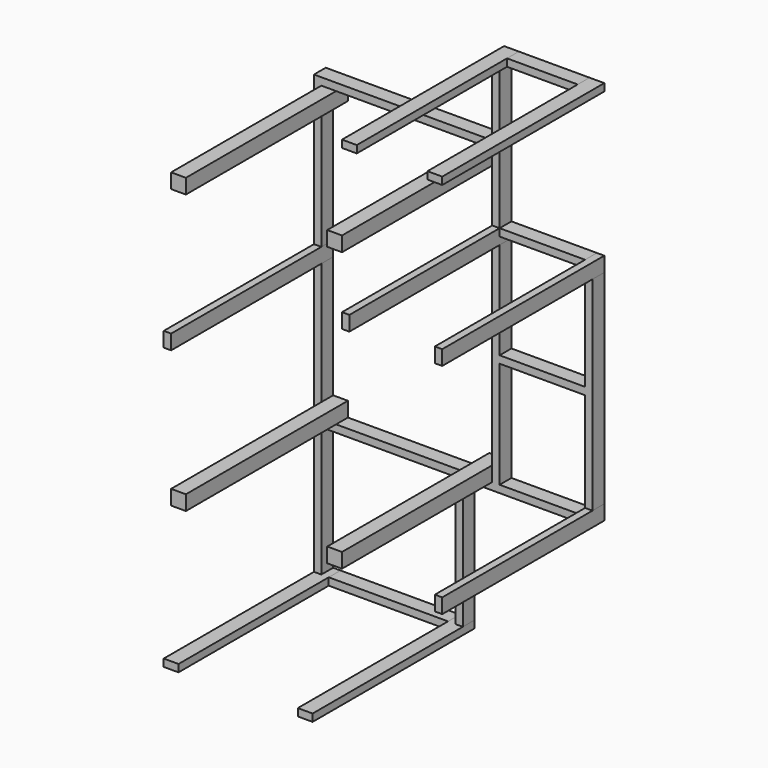
from build123d import *

# Parameters (mm, degrees)
F0_W     = 44.45
F0_H     = 419.1
F0_W_2   = 425.45
F0_H_2   = 44.45
F0_H_3   = 780.411793
F0_W_3   = 514.35
F1_DEPTH = 88.9
F0_W_4   = 88.9
F0_H_4   = 88.9
F2_DEPTH = 1219.2


with BuildPart() as f1:
    # F0 (on Front) → F1 (new body)
    with BuildSketch(Plane.XZ):
        with Locations((-64.132171, 1731.688611)):
            Rectangle(F0_W, F0_H)
        with Locations((215.267829, 1963.463611)):
            Rectangle(F0_W_2, F0_H_2)
        Polygon((-1159.507171, 1522.138611), (-1159.507171, 1477.688611), (-1115.057171, 1477.688611), (-1026.157171, 1477.688611), (-622.932171, 1477.688611), (-578.482171, 1477.688611), (-175.257171, 1477.688611), (-86.357171, 1477.688611), (-86.357171, 1522.138611), align=None)
        Polygon((-1159.507171, 1477.688611), (-1159.507171, 623.232611), (-1115.057171, 623.232611), (-1115.057171, 1388.788611), (-1115.057171, 1477.688611), align=None)
        Polygon((-1159.507171, 534.332611), (-1159.507171, -1113.111389), (-1115.057171, -1113.111389), (-1115.057171, -332.699596), (-1115.057171, -288.249596), (-1115.057171, -199.349596), (-1115.057171, 534.332611), align=None)
        Polygon((-1070.607171, -1113.111389), (-1070.607171, -1157.561389), (-352.418964, -1157.561389), (-352.418964, -1113.111389), (-689.607171, -1113.111389), (-734.057171, -1113.111389), align=None)
        with Locations((-285.743964, -722.905492)):
            Rectangle(F0_W, F0_H_3)
        Polygon((-263.518964, -332.699596), (472.442829, -332.699596), (472.442829, -288.249596), (-41.907171, -288.249596), (-86.357171, -288.249596), (-175.257171, -288.249596), (-307.968964, -288.249596), (-307.968964, -332.699596), align=None)
        Polygon((-1115.057171, -288.249596), (-1115.057171, -332.699596), (-734.057171, -332.699596), (-689.607171, -332.699596), (-307.968964, -332.699596), (-307.968964, -288.249596), (-578.482171, -288.249596), (-622.932171, -288.249596), (-1026.157171, -288.249596), align=None)
        Polygon((-86.357171, -288.249596), (-41.907171, -288.249596), (-41.907171, 353.357611), (-41.907171, 397.807611), (-41.907171, 982.388611), (-86.357171, 982.388611), (-86.357171, 623.232611), (-86.357171, 578.782611), (-86.357171, -199.349596), align=None)
        Polygon((472.442829, -243.799596), (516.892829, -243.799596), (516.892829, 982.388611), (472.442829, 982.388611), (472.442829, 397.807611), (472.442829, 353.357611), align=None)
        with Locations((215.267829, 1049.063611)):
            Rectangle(F0_W_3, F0_H_2)
        with Locations((215.267829, 375.582611)):
            Rectangle(F0_W_3, F0_H_2)
        Polygon((-41.907171, 1522.138611), (-86.357171, 1522.138611), (-86.357171, 1477.688611), (-86.357171, 1388.788611), (-86.357171, 1071.288611), (-41.907171, 1071.288611), (-41.907171, 1477.688611), align=None)
    extrude(amount=F1_DEPTH)


with BuildPart() as f2:
    # F0 (on Front) → F2 (new body)
    with BuildSketch(Plane.XZ):
        with Locations((-1070.607171, 1433.238611)):
            Rectangle(F0_W_4, F0_H_4)
        with Locations((-130.807171, 1433.238611)):
            Rectangle(F0_W_4, F0_H_4)
        Polygon((-41.907171, 1071.288611), (-86.357171, 1071.288611), (-86.357171, 982.388611), (-41.907171, 982.388611), (-41.907171, 1026.838611), align=None)
        Polygon((-1159.507171, 623.232611), (-1159.507171, 534.332611), (-1115.057171, 534.332611), (-1115.057171, 578.782611), (-1115.057171, 623.232611), align=None)
        with Locations((-64.132171, 1963.463611)):
            Rectangle(F0_W, F0_H_2)
        with Locations((-19.682171, 1963.463611)):
            Rectangle(F0_W, F0_H_2)
        with Locations((450.217829, 1963.463611)):
            Rectangle(F0_W, F0_H_2)
        with Locations((494.667829, 1963.463611)):
            Rectangle(F0_W, F0_H_2)
        Polygon((472.442829, 982.388611), (516.892829, 982.388611), (516.892829, 1071.288611), (472.442829, 1071.288611), (472.442829, 1026.838611), align=None)
        with Locations((-130.807171, -243.799596)):
            Rectangle(F0_W_4, F0_H_4)
        with Locations((-1070.607171, -243.799596)):
            Rectangle(F0_W_4, F0_H_4)
        Polygon((472.442829, -288.249596), (472.442829, -332.699596), (516.892829, -332.699596), (516.892829, -243.799596), (472.442829, -243.799596), align=None)
        Polygon((-352.418964, -1113.111389), (-352.418964, -1157.561389), (-263.518964, -1157.561389), (-263.518964, -1113.111389), (-307.968964, -1113.111389), align=None)
        Polygon((-1159.507171, -1113.111389), (-1159.507171, -1157.561389), (-1070.607171, -1157.561389), (-1070.607171, -1113.111389), (-1115.057171, -1113.111389), align=None)
    extrude(amount=F2_DEPTH)


solid = Compound([f1.part, f2.part])
